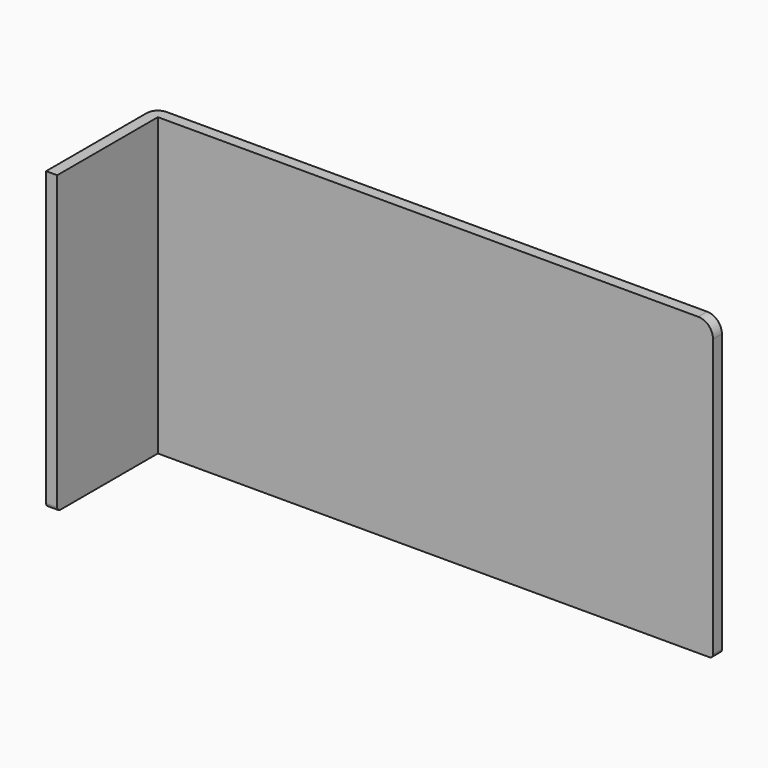
from build123d import *

# Parameters (mm, degrees)
F1_DEPTH = 1.5
F2_W     = 3
F2_H     = 80
F3_DEPTH = 34
F4_R     = 3
F5_R     = 1


with BuildPart() as f1:
    # F0 (on Front) → F1 (new body, symmetric)
    with BuildSketch(Plane.XZ):
        with BuildLine():
            Line((0, 80), (0, 0))
            Line((0, 0), (153, 0))
            Line((153, 0), (153, 76))
            ThreePointArc((153, 76), (151.828427, 78.828427), (149, 80))
            Line((149, 80), (0, 80))
        make_face()
    extrude(amount=F1_DEPTH, both=True)

    # F2 (on face) → F3 (join)
    with BuildSketch(Plane.XZ.offset(1.5)):
        with Locations((1.5, 40)):
            Rectangle(F2_W, F2_H)
    extrude(amount=F3_DEPTH)

    # F4
    f4_edges = [f1.edges().sort_by_distance(p)[0] for p in [
        (0, 1.5, 40),
    ]]
    fillet(f4_edges, radius=F4_R)

    # F5
    f5_edges = [f1.edges().sort_by_distance(p)[0] for p in [
        (1.5, -35.5, 0),
        (153, 0, 0),
    ]]
    fillet(f5_edges, radius=F5_R)


solid = f1.part
